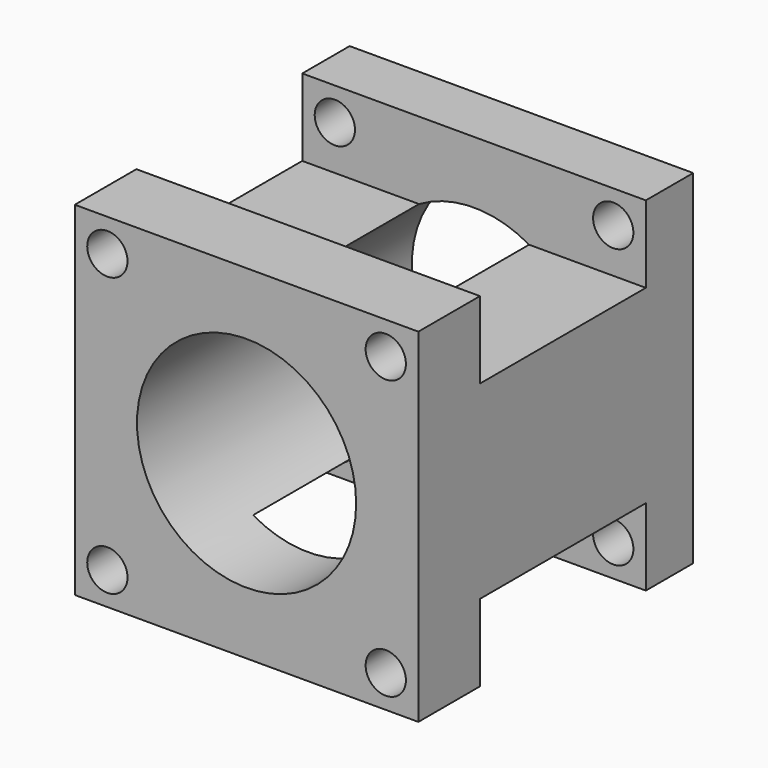
from build123d import *

# Parameters (mm, degrees)
F0_W     = 58
F0_H     = 58
F0_R     = 18.5
F1_DEPTH = 58
F2_W     = 58
F2_H     = 35
F3_DEPTH = 13
F4_W     = 58
F4_H     = 35
F5_DEPTH = 13
F7_D     = 6.8


with BuildPart() as f1:
    # F0 (on Front) → F1 (new body)
    with BuildSketch(Plane.XZ):
        with Locations((29, 29)):
            Rectangle(F0_W, F0_H)
        with Locations((29, 29)):
            Circle(F0_R, mode=Mode.SUBTRACT)
        with Locations((29, 29)):
            Rectangle(F0_W, F0_H)
        with Locations((29, 29)):
            Circle(F0_R, mode=Mode.SUBTRACT)
    extrude(amount=F1_DEPTH)

    # F2 (on face) → F3 (cut)
    with BuildSketch(Plane.XY.offset(58)):
        with Locations((29, -27.5)):
            Rectangle(F2_W, F2_H)
    extrude(amount=-F3_DEPTH, mode=Mode.SUBTRACT)

    # F4 (on face) → F5 (cut)
    with BuildSketch(Plane(origin=(0, 0, 0), x_dir=(1, 0, 0), z_dir=(0, 0, -1))):
        with Locations((29, 27.5)):
            Rectangle(F4_W, F4_H)
        with Locations((29, 27.5)):
            Rectangle(F4_W, F4_H)
    extrude(amount=-F5_DEPTH, mode=Mode.SUBTRACT)

    # F7 (through all)
    with Locations(Plane.XZ.offset(58)):
        with Locations((5.5, 52.5), (52.5, 52.5), (5.5, 5.5), (52.5, 5.5)):
            Hole(F7_D / 2)


solid = f1.part
